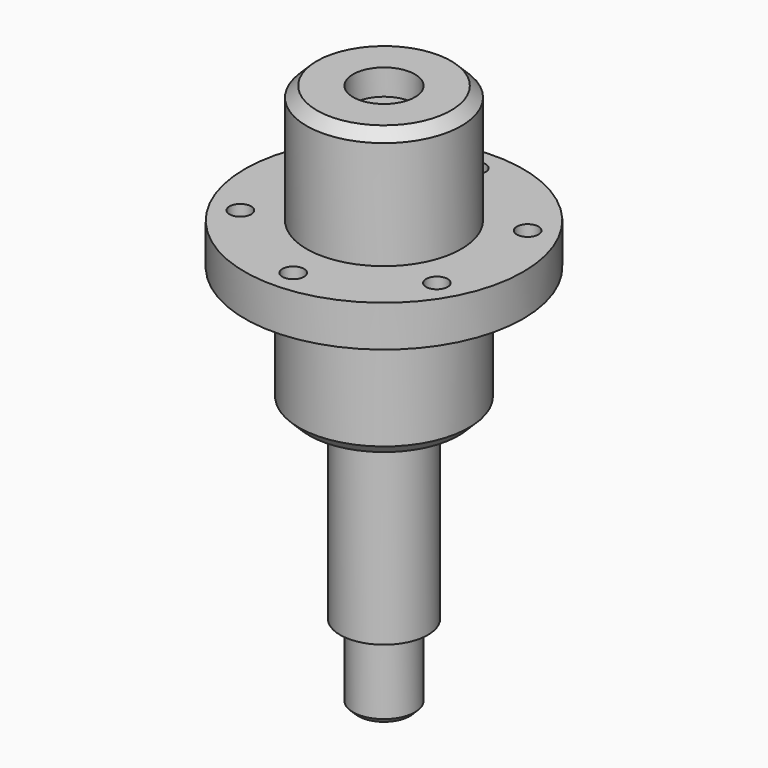
from build123d import *

# Parameters (mm, degrees)
F2_SIZE  = 2
F3_SIZE  = 1
F4_R     = 6
F5_DEPTH = 5
F6_R     = 2.1
F7_DEPTH = 10


with BuildPart() as f1:
    # F0 (on Front) → F1 (revolve)
    with BuildSketch(Plane.XZ):
        Polygon((0, -106), (0, 0), (-15, 0), (-15, -23), (-27, -23), (-27, -31), (-16.5, -31), (-16.5, -55), (-8.5, -55), (-8.5, -91), (-6, -91), (-6, -106), align=None)
    revolve(axis=Axis((0, 0, -53), (0, 0, 1)))

    # F2
    f2_edges = [f1.edges().sort_by_distance(p)[0] for p in [
        (15, 0, 0),
        (16.5, 0, -55),
    ]]
    chamfer(f2_edges, length=F2_SIZE)

    # F3
    f3_edges = [f1.edges().sort_by_distance(p)[0] for p in [
        (6, 0, -106),
    ]]
    chamfer(f3_edges, length=F3_SIZE)

    # F4 (on face) → F5 (cut)
    with BuildSketch(Plane.XY):
        Circle(F4_R)
    extrude(amount=-F5_DEPTH, mode=Mode.SUBTRACT)

    # F6 (on face) → F7 (cut)
    with BuildSketch(Plane.XY.offset(-23)):
        with Locations((0, 22)):
            Circle(F6_R)
        with Locations((-19.0525588833, 11)):
            Circle(F6_R)
        with Locations((-19.0525588833, -11)):
            Circle(F6_R)
        with Locations((0, -22)):
            Circle(F6_R)
        with Locations((19.0525588833, -11)):
            Circle(F6_R)
        with Locations((19.0525588833, 11)):
            Circle(F6_R)
    extrude(amount=-F7_DEPTH, mode=Mode.SUBTRACT)


solid = f1.part
